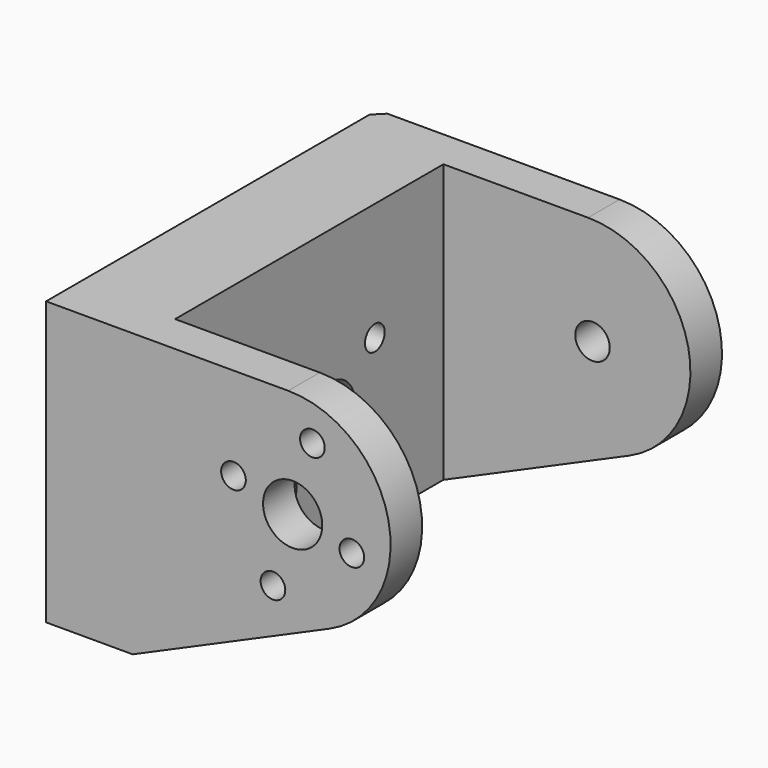
from build123d import *

# Parameters (mm, degrees)
CYLINDER038_R                     = 1.75
CYLINDER038_DEPTH                 = 22
CYLINDER038_PITCH_ANGLE           = 90
CYLINDER032_R                     = 1.25
CYLINDER032_DEPTH                 = 22
CYLINDER032_PITCH_ANGLE           = 90
CYLINDER033_R                     = 1.25
CYLINDER033_DEPTH                 = 22
CYLINDER033_PITCH_ANGLE           = 90
CYLINDER031_R                     = 1.25
CYLINDER031_DEPTH                 = 22
CYLINDER031_PITCH_ANGLE           = 90
CYLINDER030_R                     = 1.25
CYLINDER030_DEPTH                 = 22
CYLINDER030_PITCH_ANGLE           = 90
CYLINDER036_R                     = 1.25
CYLINDER036_DEPTH                 = 22
CYLINDER036_PITCH_ANGLE           = 90
CYLINDER037_R                     = 1.25
CYLINDER037_DEPTH                 = 22
CYLINDER037_PITCH_ANGLE           = 90
CYLINDER035_R                     = 1.25
CYLINDER035_DEPTH                 = 22
CYLINDER035_PITCH_ANGLE           = 90
CYLINDER034_R                     = 1.25
CYLINDER034_DEPTH                 = 22
CYLINDER034_PITCH_ANGLE           = 90
FUSION028_ROLL_ANGLE              = 34
FUSION028_PLACEMENT_ANGLE         = -90
CYLINDER029_R                     = 3
CYLINDER029_DEPTH                 = 22
CYLINDER029_PITCH_ANGLE           = 90
CYLINDER028_R                     = 3
CYLINDER028_DEPTH                 = 13
CYLINDER028_ROLL_ANGLE            = 90
CYLINDER027_R                     = 10
CYLINDER027_DEPTH                 = 10
CYLINDER027_ROLL_ANGLE            = 90
PAD003_DEPTH                      = 34
PAD002_DEPTH                      = 42
CHAMFER004_SIZE                   = 1
CLONE009_PLACEMENT_ANGLE          = -90
PART_MIRRORING006_PLACEMENT_ANGLE = 180


with BuildPart() as cilindro011:
    # Cylinder038 → Cylinder038 (new body)
    with BuildSketch(Plane.XY):
        Circle(CYLINDER038_R)
    extrude(amount=CYLINDER038_DEPTH)


with BuildPart() as cilindro011_1:
    # Cylinder038 pitch: moved
    add(cilindro011.part.rotate(Axis((0, 0, 0), (0, 1, 0)), CYLINDER038_PITCH_ANGLE))


with BuildPart() as cilindro011_2:
    # Cylinder038 placement: moved
    add(cilindro011_1.part.moved(Location((-4.75, -32, 125.75))))


with BuildPart() as cilindro005:
    # Cylinder032 → Cylinder032 (new body)
    with BuildSketch(Plane.XY):
        Circle(CYLINDER032_R)
    extrude(amount=CYLINDER032_DEPTH)


with BuildPart() as cilindro005_1:
    # Cylinder032 pitch: moved
    add(cilindro005.part.rotate(Axis((0, 0, 0), (0, 1, 0)), CYLINDER032_PITCH_ANGLE))


with BuildPart() as cilindro005_2:
    # Cylinder032 placement: moved
    add(cilindro005_1.part.moved(Location((20.25, -38, 124.25))))


with BuildPart() as cilindro006:
    # Cylinder033 → Cylinder033 (new body)
    with BuildSketch(Plane.XY):
        Circle(CYLINDER033_R)
    extrude(amount=CYLINDER033_DEPTH)


with BuildPart() as cilindro006_1:
    # Cylinder033 pitch: moved
    add(cilindro006.part.rotate(Axis((0, 0, 0), (0, 1, 0)), CYLINDER033_PITCH_ANGLE))


with BuildPart() as cilindro006_2:
    # Cylinder033 placement: moved
    add(cilindro006_1.part.moved(Location((20.25, -26, 127.25))))


with BuildPart() as cilindro004:
    # Cylinder031 → Cylinder031 (new body)
    with BuildSketch(Plane.XY):
        Circle(CYLINDER031_R)
    extrude(amount=CYLINDER031_DEPTH)


with BuildPart() as cilindro004_1:
    # Cylinder031 pitch: moved
    add(cilindro004.part.rotate(Axis((0, 0, 0), (0, 1, 0)), CYLINDER031_PITCH_ANGLE))


with BuildPart() as cilindro004_2:
    # Cylinder031 placement: moved
    add(cilindro004_1.part.moved(Location((20.25, -30, 118.75))))


with BuildPart() as fusion027:
    # Cylinder030 → Cylinder030 (new body)
    with BuildSketch(Plane.XY):
        Circle(CYLINDER030_R)
    extrude(amount=CYLINDER030_DEPTH)


with BuildPart() as fusion027_1:
    # Cylinder030 pitch: moved
    add(fusion027.part.rotate(Axis((0, 0, 0), (0, 1, 0)), CYLINDER030_PITCH_ANGLE))


with BuildPart() as fusion027_2:
    # Cylinder030 placement: moved
    add(fusion027_1.part.moved(Location((20.25, -34, 132.75))))

    # Fusion027: union Cilindro005, Cilindro006, Cilindro004
    add(cilindro005_2.part)
    add(cilindro006_2.part)
    add(cilindro004_2.part)


with BuildPart() as cilindro009:
    # Cylinder036 → Cylinder036 (new body)
    with BuildSketch(Plane.XY):
        Circle(CYLINDER036_R)
    extrude(amount=CYLINDER036_DEPTH)


with BuildPart() as cilindro009_1:
    # Cylinder036 pitch: moved
    add(cilindro009.part.rotate(Axis((0, 0, 0), (0, 1, 0)), CYLINDER036_PITCH_ANGLE))


with BuildPart() as cilindro009_2:
    # Cylinder036 placement: moved
    add(cilindro009_1.part.moved(Location((20.25, -38, 124.25))))


with BuildPart() as cilindro010:
    # Cylinder037 → Cylinder037 (new body)
    with BuildSketch(Plane.XY):
        Circle(CYLINDER037_R)
    extrude(amount=CYLINDER037_DEPTH)


with BuildPart() as cilindro010_1:
    # Cylinder037 pitch: moved
    add(cilindro010.part.rotate(Axis((0, 0, 0), (0, 1, 0)), CYLINDER037_PITCH_ANGLE))


with BuildPart() as cilindro010_2:
    # Cylinder037 placement: moved
    add(cilindro010_1.part.moved(Location((20.25, -26, 127.25))))


with BuildPart() as cilindro008:
    # Cylinder035 → Cylinder035 (new body)
    with BuildSketch(Plane.XY):
        Circle(CYLINDER035_R)
    extrude(amount=CYLINDER035_DEPTH)


with BuildPart() as cilindro008_1:
    # Cylinder035 pitch: moved
    add(cilindro008.part.rotate(Axis((0, 0, 0), (0, 1, 0)), CYLINDER035_PITCH_ANGLE))


with BuildPart() as cilindro008_2:
    # Cylinder035 placement: moved
    add(cilindro008_1.part.moved(Location((20.25, -30, 118.75))))


with BuildPart() as fusion028:
    # Cylinder034 → Cylinder034 (new body)
    with BuildSketch(Plane.XY):
        Circle(CYLINDER034_R)
    extrude(amount=CYLINDER034_DEPTH)


with BuildPart() as fusion028_1:
    # Cylinder034 pitch: moved
    add(fusion028.part.rotate(Axis((0, 0, 0), (0, 1, 0)), CYLINDER034_PITCH_ANGLE))


with BuildPart() as fusion028_2:
    # Cylinder034 placement: moved
    add(fusion028_1.part.moved(Location((20.25, -34, 132.75))))

    # Fusion028: union Cilindro009, Cilindro010, Cilindro008
    add(cilindro009_2.part)
    add(cilindro010_2.part)
    add(cilindro008_2.part)


with BuildPart() as fusion028_3:
    # Fusion028 roll: moved
    add(fusion028_2.part.rotate(Axis((0, 0, 0), (1, 0, 0)), FUSION028_ROLL_ANGLE))


with BuildPart() as fusion028_4:
    # Fusion028 placement: moved
    add(fusion028_3.part.moved(Location((114.107998, 21, 33.646227))).rotate(Axis((114.107998, 21, 33.646227), (0, 0, 1)), FUSION028_PLACEMENT_ANGLE))


with BuildPart() as cilindro002:
    # Cylinder029 → Cylinder029 (new body)
    with BuildSketch(Plane.XY):
        Circle(CYLINDER029_R)
    extrude(amount=CYLINDER029_DEPTH)


with BuildPart() as cilindro002_1:
    # Cylinder029 pitch: moved
    add(cilindro002.part.rotate(Axis((0, 0, 0), (0, 1, 0)), CYLINDER029_PITCH_ANGLE))


with BuildPart() as cilindro002_2:
    # Cylinder029 placement: moved
    add(cilindro002_1.part.moved(Location((20.25, -32, 125.75))))


with BuildPart() as cilindro001:
    # Cylinder028 → Cylinder028 (new body)
    with BuildSketch(Plane.XY):
        Circle(CYLINDER028_R)
    extrude(amount=CYLINDER028_DEPTH)


with BuildPart() as cilindro001_1:
    # Cylinder028 roll: moved
    add(cilindro001.part.rotate(Axis((0, 0, 0), (1, 0, 0)), CYLINDER028_ROLL_ANGLE))


with BuildPart() as cilindro001_2:
    # Cylinder028 placement: moved
    add(cilindro001_1.part.moved(Location((17.25, -6, 120))))


with BuildPart() as cilindro:
    # Cylinder027 → Cylinder027 (new body)
    with BuildSketch(Plane.XY):
        Circle(CYLINDER027_R)
    extrude(amount=CYLINDER027_DEPTH)


with BuildPart() as cilindro_1:
    # Cylinder027 roll: moved
    add(cilindro.part.rotate(Axis((0, 0, 0), (1, 0, 0)), CYLINDER027_ROLL_ANGLE))


with BuildPart() as cilindro_2:
    # Cylinder027 placement: moved
    add(cilindro_1.part.moved(Location((17.25, -4, 120))))


with BuildPart() as pad003:
    # Sketch008 → Pad003 (new body)
    with BuildSketch(Plane(origin=(3, -12, -1), x_dir=(0, 1, 0), z_dir=(1, 0, 0))):
        Polygon((-4.882067, 101.940956), (-4.882067, 138.559921), (-40.571098, 142.373672), (-40.571098, 120.688431), align=None)
    extrude(amount=PAD003_DEPTH)


with BuildPart() as right_shoulder:
    # Sketch007 → Pad002 (new body)
    with BuildSketch(Plane.YZ.offset(-1)):
        with BuildLine():
            Line((-35.729516, 116.76657), (-15.773906, 107.988197))
            Line((-15.773906, 107.988197), (-7.000344, 107.988197))
            Line((-7.000344, 107.988197), (-7.000344, 136.642965))
            Line((-7.000344, 136.642965), (-31.550963, 136.642965))
            ThreePointArc((-31.550963, 136.642965), (-41.706398, 128.400491), (-35.729516, 116.76657))
        make_face()
    extrude(amount=PAD002_DEPTH)

    # Cut035: cut Pad003
    add(pad003.part, mode=Mode.SUBTRACT)

    # Cut036: cut Cilindro
    add(cilindro_2.part, mode=Mode.SUBTRACT)

    # Cut037: cut Cilindro001
    add(cilindro001_2.part, mode=Mode.SUBTRACT)

    # Chamfer004
    chamfer004_edges = [right_shoulder.edges().sort_by_distance(p)[0] for p in [
        (-1, -7.000344, 122.315581),
    ]]
    chamfer(chamfer004_edges, length=CHAMFER004_SIZE)

    # Cut038: cut Cilindro002
    add(cilindro002_2.part, mode=Mode.SUBTRACT)

    # Cut039: cut Fusion028
    add(fusion028_4.part, mode=Mode.SUBTRACT)

    # Cut040: cut Fusion027
    add(fusion027_2.part, mode=Mode.SUBTRACT)

    # Cut041: cut Cilindro011
    add(cilindro011_2.part, mode=Mode.SUBTRACT)


with BuildPart() as right_shoulder_1:
    # Clone009 placement: moved
    add(right_shoulder.part.moved(Location((-275, 70, 2.5))).rotate(Axis((-275, 70, 2.5), (0, 0, 1)), CLONE009_PLACEMENT_ANGLE))


with BuildPart() as left_shoulder:
    # Part__Mirroring006: instance of right-shoulder
    add(right_shoulder_1.part.mirror(Plane(origin=(0, 0, 0), x_dir=(1, 0, 0), z_dir=(0, 1, 0))))


with BuildPart() as left_shoulder_1:
    # Part__Mirroring006 placement: moved
    add(left_shoulder.part.moved(Location((-478, 0, 0))).rotate(Axis((-478, 0, 0), (0, 0, 1)), PART_MIRRORING006_PLACEMENT_ANGLE))


solid = left_shoulder_1.part
